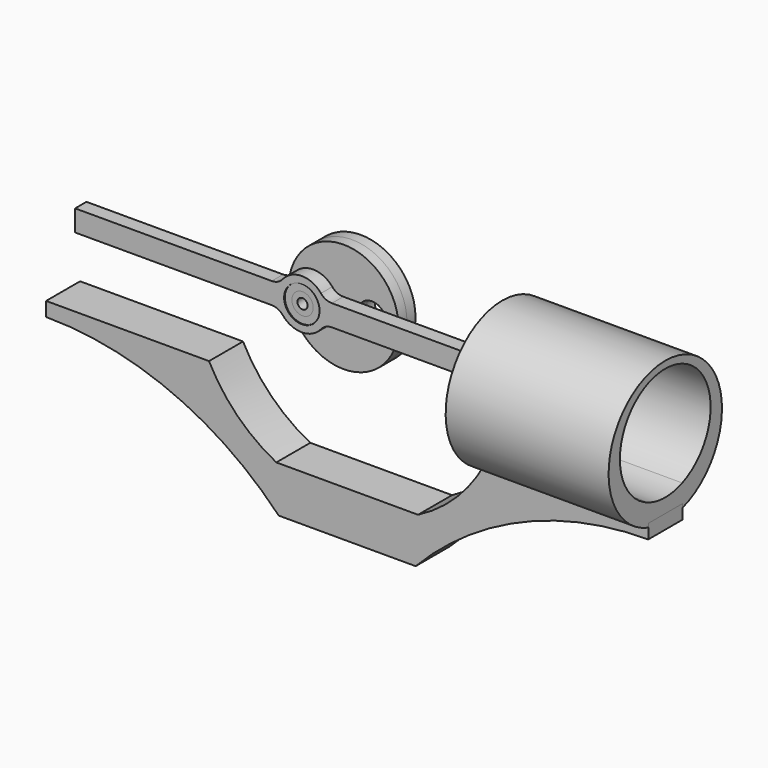
from build123d import *

# Parameters (mm, degrees)
F0_R           = 12.2936
F0_R_2         = 3.175
F1_DEPTH       = 2.38125
F1_DEPTH_BACK  = 2.38125
F2_R           = 3.175
F3_DEPTH       = 5.55625
F4_R           = 2.38125
F5_DEPTH       = 2.778125
F7_D           = 2.2606
F8_R           = 3.96875
F8_R_2         = 2.38125
F9_DEPTH       = 2.778125
F12_DEPTH      = 1.5875
F12_DEPTH_BACK = 1.5875
F14_D          = 2.2606
F14_DEPTH      = 9.8552
F14_TIP        = 0.6791527577
F15_R          = 11.049
F16_DEPTH      = 0.79375
F17_R          = 12.7
F18_DEPTH      = 1.5875
F20_D          = 3.2639
F20_2_D        = 3.2639
F21_R          = 12.7
F21_R_2        = 11.1125
F22_DEPTH      = 7.9375
F24_DEPTH      = 36.5125
F27_DEPTH      = 4.7625
F27_DEPTH_BACK = 4.7625


with BuildPart() as f1:
    # F0 (on Front) → F1 (new body, two sides)
    with BuildSketch(Plane.XZ) as f1_sk:
        Circle(F0_R)
        with Locations((-6.35, 0)):
            Circle(F0_R_2, mode=Mode.SUBTRACT)
        with Locations((6.35, 0)):
            Circle(F0_R_2, mode=Mode.SUBTRACT)
    extrude(amount=-F1_DEPTH)
    extrude(f1_sk.sketch, amount=F1_DEPTH_BACK)


with BuildPart() as f3:
    # F2 (on face) → F3 (new body)
    with BuildSketch(Plane(origin=(0, 2.38125, 0), x_dir=(-1, 0, 0), z_dir=(0, 1, 0))):
        with Locations((6.35, 0)):
            Circle(F2_R)
    extrude(amount=-F3_DEPTH)

    # F4 (on face) → F5 (join)
    with BuildSketch(Plane.XZ.offset(3.175)):
        with Locations((-6.35, 0)):
            Circle(F4_R)
    extrude(amount=F5_DEPTH)

    # F7 (through all)
    with Locations(Plane(origin=(0, 2.38125, 0), x_dir=(-1, 0, 0), z_dir=(0, 1, 0))):
        with Locations((6.35, 0)):
            Hole(F7_D / 2)


with BuildPart() as f9:
    # F8 (on face) → F9 (new body)
    with BuildSketch(Plane.XZ.offset(3.175)):
        with Locations((-6.35, 0)):
            Circle(F8_R)
        with Locations((-6.35, 0)):
            Circle(F8_R_2, mode=Mode.SUBTRACT)
    extrude(amount=F9_DEPTH)


with BuildPart() as f12:
    # F11 (on offset) → F12 (new body, two sides)
    with BuildSketch(Plane.XZ.offset(4.5640625)) as f12_sk:
        with BuildLine():
            ThreePointArc((0.3851920908, 2.38125), (-0.9686324581, 2.6843544429), (-2.0639686695, 3.5357954545))
            ThreePointArc((-2.0639686695, 3.5357954545), (-3.9808070395, 5.0258172249), (-6.35, 5.55625))
            ThreePointArc((-6.35, 5.55625), (-8.7191929605, 5.0258172249), (-10.6360313305, 3.5357954545))
            ThreePointArc((-10.6360313305, 3.5357954545), (-11.7313675419, 2.6843544429), (-13.0851920908, 2.38125))
            Line((-13.0851920908, 2.38125), (-57.15, 2.38125))
            Line((-57.15, 2.38125), (-57.15, -2.38125))
            Line((-57.15, -2.38125), (-13.0851920908, -2.38125))
            ThreePointArc((-13.0851920908, -2.38125), (-11.7313675419, -2.6843544429), (-10.6360313305, -3.5357954545))
            ThreePointArc((-10.6360313305, -3.5357954545), (-8.7191929605, -5.0258172249), (-6.35, -5.55625))
            ThreePointArc((-6.35, -5.55625), (-3.9808070395, -5.0258172249), (-2.0639686695, -3.5357954545))
            ThreePointArc((-2.0639686695, -3.5357954545), (-0.9686324581, -2.6843544429), (0.3851920908, -2.38125))
            Line((0.3851920908, -2.38125), (44.45, -2.38125))
            Line((44.45, -2.38125), (44.45, 2.38125))
            Line((44.45, 2.38125), (0.3851920908, 2.38125))
        make_face()
        with BuildLine():
            ThreePointArc((-3.175, 2.38125), (-2.5849131609, 1.2550289464), (-2.38125, 0))
            ThreePointArc((-2.38125, 0), (-10.1150868391, -1.2550289464), (-3.175, 2.38125))
        make_face(mode=Mode.SUBTRACT)
    extrude(amount=F12_DEPTH)
    extrude(f12_sk.sketch, amount=-F12_DEPTH_BACK)

    # F14
    with Locations(Plane.YZ.offset(44.45)):
        with Locations((-4.5640625, 0)):
            Hole(F14_D / 2, depth=F14_DEPTH)
            with Locations((0, 0, -(F14_DEPTH + F14_TIP / 2))):  # 118° drill point
                Cone(0, F14_D / 2, F14_TIP, mode=Mode.SUBTRACT)


with BuildPart() as f16:
    # F15 (on face) → F16 (new body)
    with BuildSketch(Plane.YZ.offset(44.45)):
        with Locations((-4.5640625, 0)):
            Circle(F15_R)
    extrude(amount=F16_DEPTH)

    # F20 (through all)
    with Locations(Plane.YZ.offset(46.83125)):
        with Locations((-4.5640625, 0)):
            Hole(F20_D / 2)


with BuildPart() as f18:
    # F17 (on face) → F18 (new body)
    with BuildSketch(Plane.YZ.offset(45.24375)):
        with Locations((-4.5640625, 0)):
            Circle(F17_R)
    extrude(amount=F18_DEPTH)

    # F20#2 (through all)
    with Locations(Plane.YZ.offset(46.83125)):
        with Locations((-4.5640625, 0)):
            Hole(F20_2_D / 2)

    # F21 (on face) → F22 (join)
    with BuildSketch(Plane(origin=(45.24375, 0, 0), x_dir=(0, -1, 0), z_dir=(-1, 0, 0))):
        with Locations((4.5640625, 0)):
            Circle(F21_R)
        with Locations((4.5640625, 0)):
            Circle(F21_R_2, mode=Mode.SUBTRACT)
    extrude(amount=F22_DEPTH)


with BuildPart() as f24:
    # F23 (on face) → F24 (new body)
    with BuildSketch(Plane(origin=(37.30625, 0, 0), x_dir=(0, -1, 0), z_dir=(-1, 0, 0))):
        with BuildLine():
            Line((9.3265625, -15.875), (9.3265625, -16.7312848225))
            ThreePointArc((9.3265625, -16.7312848225), (4.5640625, 14.2875), (-0.1984375, -16.7312848225))
            Line((-0.1984375, -16.7312848225), (-0.1984375, -15.875))
            Line((-0.1984375, -15.875), (9.3265625, -15.875))
        make_face()
        with BuildLine():
            ThreePointArc((9.3265625, 11.7732150983), (15.0943462094, 7.0995158286), (17.2640625, 0))
            ThreePointArc((17.2640625, 0), (15.0943462094, -7.0995158286), (9.3265625, -11.7732150983))
            ThreePointArc((9.3265625, -11.7732150983), (4.5640625, -12.7), (-0.1984375, -11.7732150983))
            ThreePointArc((-0.1984375, -11.7732150983), (-8.1359375, 0), (-0.1984375, 11.7732150983))
            ThreePointArc((-0.1984375, 11.7732150983), (4.5640625, 12.7), (9.3265625, 11.7732150983))
        make_face(mode=Mode.SUBTRACT)
    extrude(amount=-F24_DEPTH)


with BuildPart() as f27:
    # F26 (on offset) → F27 (new body, two sides)
    with BuildSketch(Plane.XZ.offset(4.5640625)) as f27_sk:
        with BuildLine():
            Line((22.225, -30.95625), (6.35, -30.95625))
            Line((6.35, -30.95625), (6.35, -41.275))
            Line((6.35, -41.275), (21.6904613597, -41.275))
            ThreePointArc((21.6904613597, -41.275), (45.4845431928, -24.8381142832), (73.81875, -19.05))
            Line((73.81875, -19.05), (73.81875, -15.875))
            Line((73.81875, -15.875), (37.30625, -15.875))
            ThreePointArc((37.30625, -15.875), (30.9498479575, -24.5998479575), (22.225, -30.95625))
        make_face()
        with BuildLine():
            Line((6.35, -41.275), (6.35, -30.95625))
            Line((6.35, -30.95625), (-9.525, -30.95625))
            ThreePointArc((-9.525, -30.95625), (-18.2498479575, -24.5998479575), (-24.60625, -15.875))
            Line((-24.60625, -15.875), (-61.11875, -15.875))
            Line((-61.11875, -15.875), (-61.11875, -19.05))
            ThreePointArc((-61.11875, -19.05), (-32.7845431928, -24.8381142832), (-8.9904613597, -41.275))
            Line((-8.9904613597, -41.275), (6.35, -41.275))
        make_face()
    extrude(amount=F27_DEPTH)
    extrude(f27_sk.sketch, amount=-F27_DEPTH_BACK)


solid = Compound([f1.part, f3.part, f9.part, f12.part, f16.part, f18.part, f24.part, f27.part])
